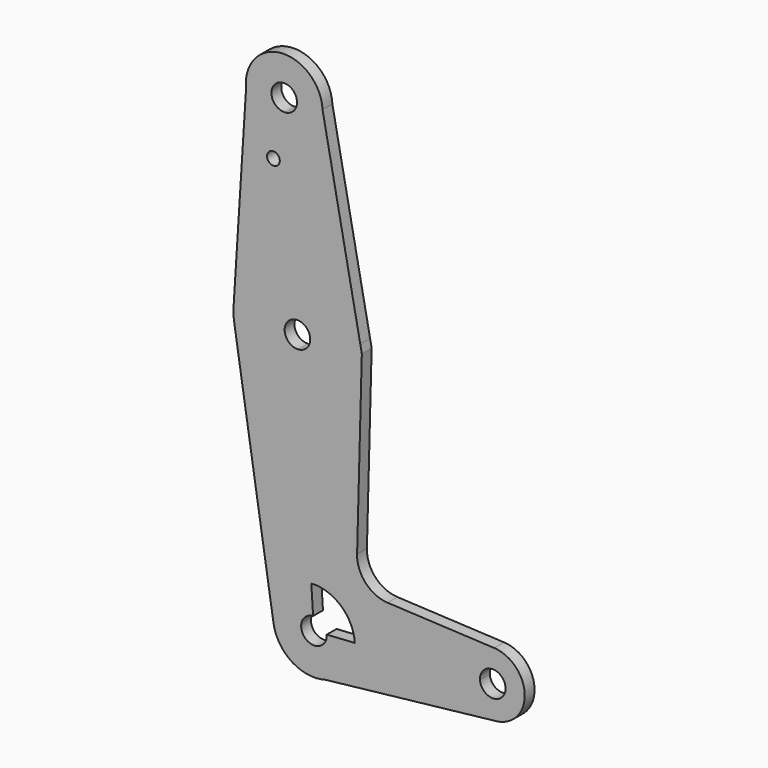
from build123d import *

# Parameters (mm, degrees)
F0_R     = 1.5875
F1_DEPTH = 3.048


with BuildPart() as f1:
    # F0 (on Front) → F1 (new body)
    with BuildSketch(Plane.XZ):
        with BuildLine():
            ThreePointArc((-50.5042680437, 63.6216618954), (-47.1542651109, 57.382604112), (-40.4239670527, 55.1800034394))
            ThreePointArc((-40.4239670527, 55.1800034394), (-34.0896459808, 58.1709562478), (-31.5138232961, 64.6851376731))
            ThreePointArc((-31.5138232961, 64.6851376731), (-31.5163410034, 64.9041262217), (-31.5238927941, 65.1229990015))
            ThreePointArc((-31.5238927941, 65.1229990015), (-41.7898995149, 74.1804791368), (-50.5042680437, 63.6216618954))
        make_face()
        with BuildLine():
            ThreePointArc((-37.8638232961, 64.6851376731), (-38.7224308577, 62.5137438647), (-40.833871215, 61.5167595952))
            ThreePointArc((-40.833871215, 61.5167595952), (-43.3552157345, 66.8565314815), (-37.8638232961, 64.6851376731))
        make_face(mode=Mode.SUBTRACT)
        with BuildLine():
            ThreePointArc((-31.5138232961, 64.6851376731), (-34.0896459808, 58.1709562478), (-40.4239670527, 55.1800034394))
            Line((-40.4239670527, 55.1800034394), (-38.7843504035, 29.8329788163))
            ThreePointArc((-38.7843504035, 29.8329788163), (-28.0623580194, 26.5600707626), (-22.1761003167, 17.0193675354))
            Line((-22.1761003167, 17.0193675354), (-31.5238927941, 65.1229990015))
            ThreePointArc((-31.5238927941, 65.1229990015), (-31.5163410034, 64.9041262217), (-31.5138232961, 64.6851376731))
        make_face()
        with BuildLine():
            Line((-38.7843504035, 29.8329788163), (-40.4239670527, 55.1800034394))
            ThreePointArc((-40.4239670527, 55.1800034394), (-47.1542651109, 57.382604112), (-50.5042680437, 63.6216618954))
            Line((-50.5042680437, 63.6216618954), (-53.60245848, 15.0006146799))
            ThreePointArc((-53.60245848, 15.0006146799), (-48.9903060277, 25.2110101047), (-38.7843504035, 29.8329788163))
        make_face()
        with Locations((-43.7214151025, 50.5162884269)):
            Circle(F0_R, mode=Mode.SUBTRACT)
        with BuildLine():
            ThreePointArc((-22.1761003167, 17.0193675354), (-28.0623580194, 26.5600707626), (-38.7843504035, 29.8329788163))
            Line((-38.7843504035, 29.8329788163), (-37.9645420789, 17.1594665048))
            ThreePointArc((-37.9645420789, 17.1594665048), (-35.5881961894, 16.3074808653), (-34.5845899978, 13.9910884269))
            ThreePointArc((-34.5845899978, 13.9910884269), (-35.4431975594, 11.8196946185), (-37.5546379166, 10.822710349))
            Line((-37.5546379166, 10.822710349), (-36.7348295921, -1.8508019626))
            ThreePointArc((-36.7348295921, -1.8508019626), (-26.1776278056, 3.1341193848), (-21.8845899978, 13.9910884269))
            ThreePointArc((-21.8845899978, 13.9910884269), (-21.9576356299, 15.5122271964), (-22.1761003167, 17.0193675354))
        make_face()
        with BuildLine():
            Line((-37.9645420789, 17.1594665048), (-38.7843504035, 29.8329788163))
            ThreePointArc((-38.7843504035, 29.8329788163), (-48.9903060277, 25.2110101047), (-53.60245848, 15.0006146799))
            ThreePointArc((-53.60245848, 15.0006146799), (-53.6146740156, 13.1961445378), (-53.4220280351, 11.4019457641))
            ThreePointArc((-53.4220280351, 11.4019457641), (-47.6324939367, 1.5596205806), (-36.7348295921, -1.8508019626))
            Line((-36.7348295921, -1.8508019626), (-37.5546379166, 10.822710349))
            ThreePointArc((-37.5546379166, 10.822710349), (-40.9279680757, 13.7861363457), (-37.9645420789, 17.1594665048))
        make_face()
        with BuildLine():
            Line((-21.7838038896, 15.0006146799), (-22.1761003167, 17.0193675354))
            ThreePointArc((-22.1761003167, 17.0193675354), (-21.9576356299, 15.5122271964), (-21.8845899978, 13.9910884269))
            ThreePointArc((-21.8845899978, 13.9910884269), (-26.1776278056, 3.1341193848), (-36.7348295921, -1.8508019626))
            Line((-36.7348295921, -1.8508019626), (-34.3163950346, -39.2376632816))
            ThreePointArc((-34.3163950346, -39.2376632816), (-26.9550807978, -41.7434983128), (-23.5217385257, -48.7206264712))
            Line((-23.5217385257, -48.7206264712), (2.7757995208, -47.0195241977))
            ThreePointArc((2.7757995208, -47.0195241977), (5.0392904077, -40.9396385387), (11.0821216178, -38.5790048126))
            Line((11.0821216178, -38.5790048126), (-15.3970316035, -37.2918863845))
            ThreePointArc((-15.3970316035, -37.2918863845), (-20.8399623866, -34.7574770434), (-22.9584246143, -29.1395731632))
            Line((-22.9584246143, -29.1395731632), (-21.7838038896, 15.0006146799))
        make_face()
        with BuildLine():
            ThreePointArc((-36.7348295921, -1.8508019626), (-47.6324939367, 1.5596205806), (-53.4220280351, 11.4019457641))
            Line((-53.4220280351, 11.4019457641), (-43.6992026963, -50.9420463215))
            ThreePointArc((-43.6992026963, -50.9420463215), (-41.5877946429, -43.0216036117), (-34.3163950346, -39.2376632816))
            Line((-34.3163950346, -39.2376632816), (-36.7348295921, -1.8508019626))
        make_face()
        with BuildLine():
            ThreePointArc((-34.3163950346, -39.2376632816), (-41.5877946429, -43.0216036117), (-43.6992026963, -50.9420463215))
            ThreePointArc((-43.6992026963, -50.9420463215), (-40.4647037817, -56.9216085968), (-34.1837836398, -59.5229909995))
            Line((-34.1837836398, -59.5229909995), (-30.9047285274, -59.1555864326))
            ThreePointArc((-30.9047285274, -59.1555864326), (-25.5604023993, -55.5094361321), (-23.5005483749, -49.3764731309))
            ThreePointArc((-23.5005483749, -49.3764731309), (-23.5058472944, -49.0483786843), (-23.5217385257, -48.7206264712))
            Line((-23.5217385257, -48.7206264712), (-30.492170297, -49.1715210497))
            ThreePointArc((-30.492170297, -49.1715210497), (-30.4872042872, -49.2739436163), (-30.4855483749, -49.3764731309))
            ThreePointArc((-30.4855483749, -49.3764731309), (-35.8319421833, -51.6928655693), (-33.865500456, -46.208095053))
            Line((-33.865500456, -46.208095053), (-34.3163950346, -39.2376632816))
        make_face()
        with BuildLine():
            Line((-30.9047285274, -59.1555864326), (-34.1837836398, -59.5229909995))
            ThreePointArc((-34.1837836398, -59.5229909995), (-32.5292416046, -59.4732916888), (-30.9047285274, -59.1555864326))
        make_face()
        with BuildLine():
            Line((2.7757995208, -47.0195241977), (-23.5217385257, -48.7206264712))
            ThreePointArc((-23.5217385257, -48.7206264712), (-23.5058472944, -49.0483786843), (-23.5005483749, -49.3764731309))
            ThreePointArc((-23.5005483749, -49.3764731309), (-25.5604023993, -55.5094361321), (-30.9047285274, -59.1555864326))
            Line((-30.9047285274, -59.1555864326), (11.5805781298, -54.3952834932))
            ThreePointArc((11.5805781298, -54.3952834932), (5.5996188736, -52.5918144379), (2.7757995208, -47.0195241977))
        make_face()
        with BuildLine():
            ThreePointArc((18.6342447155, -46.5071439948), (16.4440412718, -41.0324304367), (11.0821216178, -38.5790048126))
            ThreePointArc((11.0821216178, -38.5790048126), (5.0392904077, -40.9396385387), (2.7757995208, -47.0195241977))
            ThreePointArc((2.7757995208, -47.0195241977), (5.5996188736, -52.5918144379), (11.5805781298, -54.3952834932))
            ThreePointArc((11.5805781298, -54.3952834932), (16.6136414518, -51.7981022504), (18.6342447155, -46.5071439948))
        make_face()
        with BuildLine():
            ThreePointArc((13.8717447155, -46.5071439948), (10.7992742301, -49.6804880825), (7.5283666376, -46.712096076))
            ThreePointArc((7.5283666376, -46.712096076), (10.594215201, -43.3337999072), (13.8717447155, -46.5071439948))
        make_face(mode=Mode.SUBTRACT)
    extrude(amount=F1_DEPTH)


solid = f1.part
